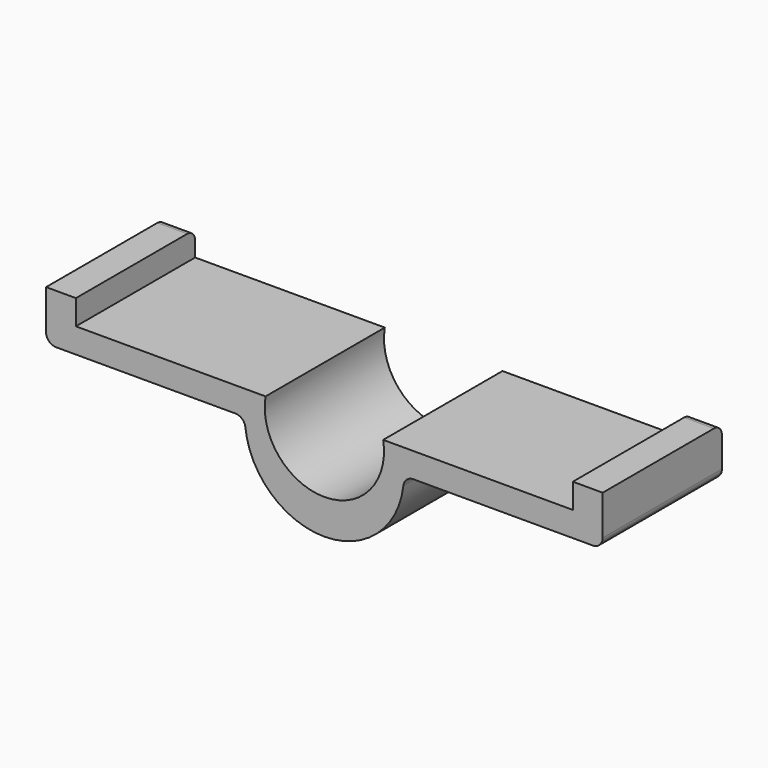
from build123d import *

# Parameters (mm, degrees)
F1_DEPTH = 750
F2_R     = 50
F3_R     = 50
F4_R     = 50
F5_R     = 50
F6_R     = 50


with BuildPart() as f1:
    # F0 (on Front) → F1 (new body)
    with BuildSketch(Plane.XZ):
        with BuildLine():
            ThreePointArc((-800, 0), (-400, -400), (0, 0))
            Line((0, 0), (1000, 0))
            Line((1000, 0), (1000, 250))
            Line((1000, 250), (850, 250))
            Line((850, 250), (850, 125))
            Line((850, 125), (-104.070191, 125))
            ThreePointArc((-104.070191, 125), (-400, -224.249854), (-695.929809, 125))
            Line((-695.929809, 125), (-1650, 125))
            Line((-1650, 125), (-1650, 250))
            Line((-1650, 250), (-1800, 250))
            Line((-1800, 250), (-1800, 0))
            Line((-1800, 0), (-800, 0))
        make_face()
    extrude(amount=F1_DEPTH)

    # F2
    f2_edges = [f1.edges().sort_by_distance(p)[0] for p in [
        (1000, -375, 0),
    ]]
    fillet(f2_edges, radius=F2_R)

    # F3
    f3_edges = [f1.edges().sort_by_distance(p)[0] for p in [
        (925, 0, 250),
    ]]
    fillet(f3_edges, radius=F3_R)

    # F4
    f4_edges = [f1.edges().sort_by_distance(p)[0] for p in [
        (0, -375, 0),
    ]]
    fillet(f4_edges, radius=F4_R)

    # F5
    f5_edges = [f1.edges().sort_by_distance(p)[0] for p in [
        (-800, -375, 0),
    ]]
    fillet(f5_edges, radius=F5_R)

    # F6
    f6_edges = [f1.edges().sort_by_distance(p)[0] for p in [
        (-1800, -375, 0),
        (-1725, 0, 250),
    ]]
    fillet(f6_edges, radius=F6_R)


solid = f1.part
